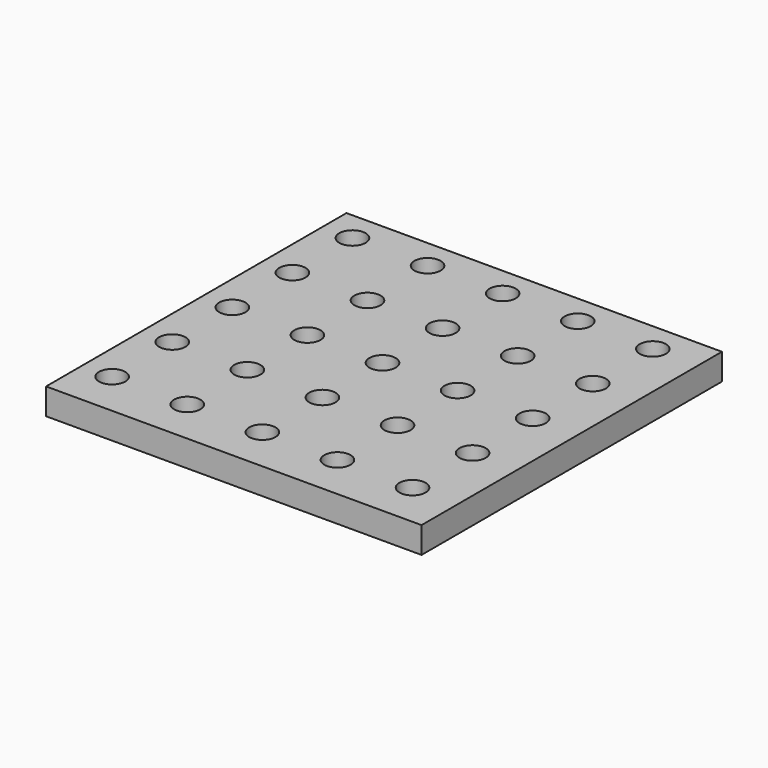
from build123d import *

# Parameters (mm, degrees)
F0_W     = 50
F0_H     = 50
F1_DEPTH = 3.5
F2_R     = 1.75
F3_DEPTH = 3.501


with BuildPart() as f1:
    # F0 (on Top) → F1 (new body)
    with BuildSketch(Plane.XY):
        with Locations((25, -25)):
            Rectangle(F0_W, F0_H)
    extrude(amount=F1_DEPTH)

    # F2 (on face) → F3 (cut, through all)
    with BuildSketch(Plane.XY.offset(3.5)):
        with Locations((4, -4)):
            Circle(F2_R)
        with Locations((14, -4)):
            Circle(F2_R)
        with Locations((24, -4)):
            Circle(F2_R)
        with Locations((34, -4)):
            Circle(F2_R)
        with Locations((44, -4)):
            Circle(F2_R)
        with Locations((44, -14)):
            Circle(F2_R)
        with Locations((34, -14)):
            Circle(F2_R)
        with Locations((24, -14)):
            Circle(F2_R)
        with Locations((14, -14)):
            Circle(F2_R)
        with Locations((4, -14)):
            Circle(F2_R)
        with Locations((4, -24)):
            Circle(F2_R)
        with Locations((14, -24)):
            Circle(F2_R)
        with Locations((24, -24)):
            Circle(F2_R)
        with Locations((34, -24)):
            Circle(F2_R)
        with Locations((44, -24)):
            Circle(F2_R)
        with Locations((4, -34)):
            Circle(F2_R)
        with Locations((14, -34)):
            Circle(F2_R)
        with Locations((24, -34)):
            Circle(F2_R)
        with Locations((34, -34)):
            Circle(F2_R)
        with Locations((44, -34)):
            Circle(F2_R)
        with Locations((4, -44)):
            Circle(F2_R)
        with Locations((14, -44)):
            Circle(F2_R)
        with Locations((24, -44)):
            Circle(F2_R)
        with Locations((34, -44)):
            Circle(F2_R)
        with Locations((44, -44)):
            Circle(F2_R)
    extrude(amount=-F3_DEPTH, mode=Mode.SUBTRACT)


solid = f1.part
